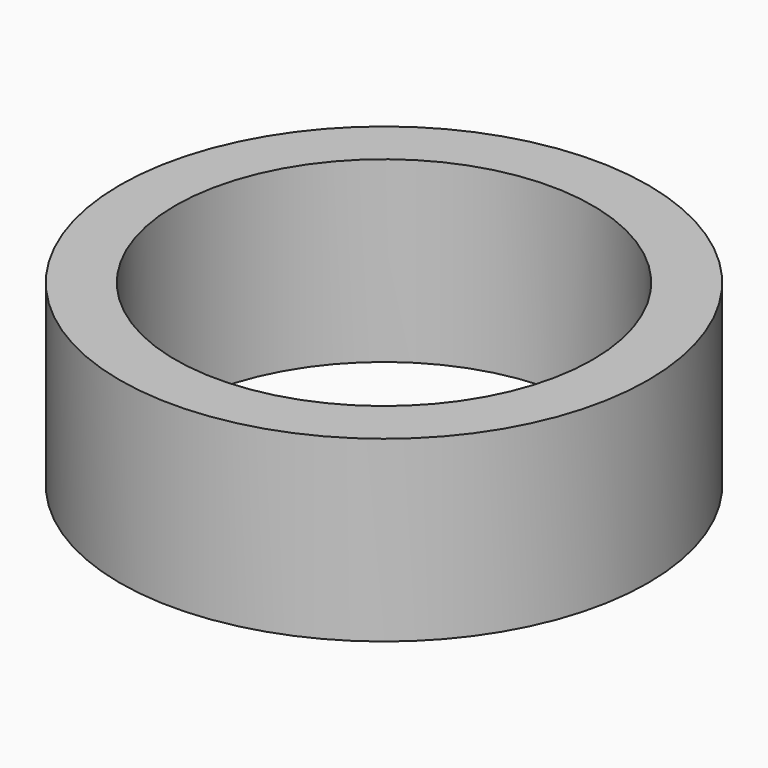
from build123d import *

# Parameters (mm, degrees)
F0_W     = 80.3588777781
F0_H     = 54.3091148138
F2_R     = 63.5
F3_DEPTH = 54.3101148138


with BuildPart() as f1:
    # F0 (on Front) → F1 (revolve)
    with BuildSketch(Plane.XZ):
        with Locations((40.179438889, -27.1545574069)):
            Rectangle(F0_W, F0_H)
    revolve(axis=Axis((0, 0, -27.1545574069), (0, 0, -1)))

    # F2 (on face) → F3 (cut, through all)
    with BuildSketch(Plane.XY):
        Circle(F2_R)
    extrude(amount=-F3_DEPTH, mode=Mode.SUBTRACT)


solid = f1.part
